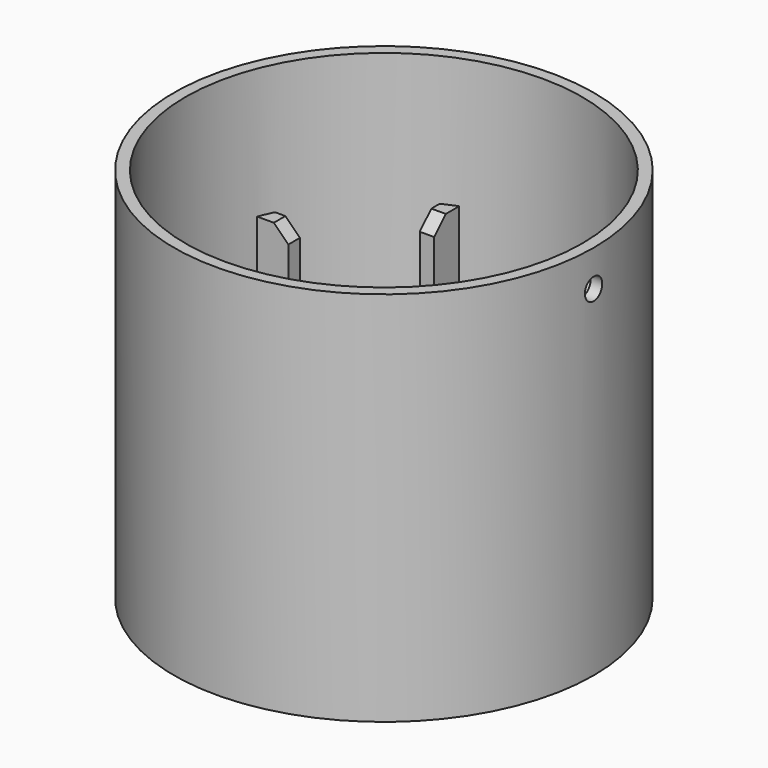
from build123d import *

# Parameters (mm, degrees)
SKETCH002_W             = 2
SKETCH002_H             = 4.5
SKETCH002_W_2           = 4.5
SKETCH002_H_2           = 2
PAD_DEPTH               = 34
CHAMFER_SIZE            = 2
CYLINDER001_R           = 1.5
CYLINDER001_DEPTH       = 10
CYLINDER001_PITCH_ANGLE = 90
CHAMFER001_SIZE         = 2
CYLINDER_R              = 29
CYLINDER_DEPTH          = 52
SKETCH_R                = 27.4
POCKET_DEPTH            = 50
SKETCH001_R             = 1.7
SKETCH001_R_2           = 15
SKETCH001_R_3           = 4.5
POCKET001_DEPTH         = 2.001


with BuildPart() as pad:
    # Sketch002 → Pad (new body)
    with BuildSketch(Plane.XY):
        with Locations((-11, 23.45)):
            Rectangle(SKETCH002_W, SKETCH002_H)
        with Locations((11, 23.45)):
            Rectangle(SKETCH002_W, SKETCH002_H)
        with Locations((-11, -23.45)):
            Rectangle(SKETCH002_W, SKETCH002_H)
        with Locations((11, -23.45)):
            Rectangle(SKETCH002_W, SKETCH002_H)
        with Locations((23.45, 11)):
            Rectangle(SKETCH002_W_2, SKETCH002_H_2)
        with Locations((23.45, -11)):
            Rectangle(SKETCH002_W_2, SKETCH002_H_2)
        with Locations((-23.45, 11)):
            Rectangle(SKETCH002_W_2, SKETCH002_H_2)
        with Locations((-23.45, -11)):
            Rectangle(SKETCH002_W_2, SKETCH002_H_2)
    extrude(amount=PAD_DEPTH)


with BuildPart() as chamfer_body:
    # Chamfer base: copy of Pad
    add(pad.part)

    # Chamfer
    chamfer_edges = [chamfer_body.edges().sort_by_distance(p)[0] for p in [
        (-21.2, -11, 34),
        (-11, -21.2, 34),
        (11, -21.2, 34),
        (21.2, -11, 34),
        (21.2, 11, 34),
        (11, 21.2, 34),
        (-11, 21.2, 34),
        (-21.2, 11, 34),
    ]]
    chamfer(chamfer_edges, length=CHAMFER_SIZE)


with BuildPart() as cylinder001:
    # Cylinder001 → Cylinder001 (new body)
    with BuildSketch(Plane.XY):
        Circle(CYLINDER001_R)
    extrude(amount=CYLINDER001_DEPTH)


with BuildPart() as cylinder001_1:
    # Cylinder001 pitch: moved
    add(cylinder001.part.rotate(Axis((0, 0, 0), (0, 1, 0)), CYLINDER001_PITCH_ANGLE))


with BuildPart() as cylinder001_2:
    # Cylinder001 placement: moved
    add(cylinder001_1.part.moved(Location((22, 0, 47))))


with BuildPart() as chamfer001:
    # Chamfer001 base: copy of Pad
    add(pad.part)

    # Chamfer001
    chamfer001_edges = [chamfer001.edges().sort_by_distance(p)[0] for p in [
        (-21.2, -11, 34),
        (-11, -21.2, 34),
        (11, -21.2, 34),
        (21.2, -11, 34),
        (21.2, 11, 34),
        (11, 21.2, 34),
        (-11, 21.2, 34),
        (-21.2, 11, 34),
    ]]
    chamfer(chamfer001_edges, length=CHAMFER001_SIZE)


with BuildPart() as cut:
    # Cylinder → Cylinder (new body)
    with BuildSketch(Plane.XY):
        Circle(CYLINDER_R)
    extrude(amount=CYLINDER_DEPTH)

    # Sketch → Pocket (cut)
    with BuildSketch(Plane.XY.offset(52)):
        Circle(SKETCH_R)
    extrude(amount=-POCKET_DEPTH, mode=Mode.SUBTRACT)

    # Sketch001 → Pocket001 (cut, through all)
    with BuildSketch(Plane.XY.offset(2)):
        with Locations((-15.5, 15.5)):
            Circle(SKETCH001_R)
        with Locations((15.5, 15.5)):
            Circle(SKETCH001_R)
        with Locations((-15.5, -15.5)):
            Circle(SKETCH001_R)
        with Locations((15.5, -15.5)):
            Circle(SKETCH001_R)
        Circle(SKETCH001_R_2)
        with Locations((-21, 0)):
            Circle(SKETCH001_R_3)
        with Locations((21, 0)):
            Circle(SKETCH001_R_3)
        with Locations((0, 21)):
            Circle(SKETCH001_R_3)
        with Locations((0, -21)):
            Circle(SKETCH001_R_3)
    extrude(amount=-POCKET001_DEPTH, mode=Mode.SUBTRACT)

    # Fusion: union Chamfer001
    add(chamfer001.part)

    # Cut: cut Cylinder001
    add(cylinder001_2.part, mode=Mode.SUBTRACT)


solid = Compound([chamfer_body.part, cut.part])
